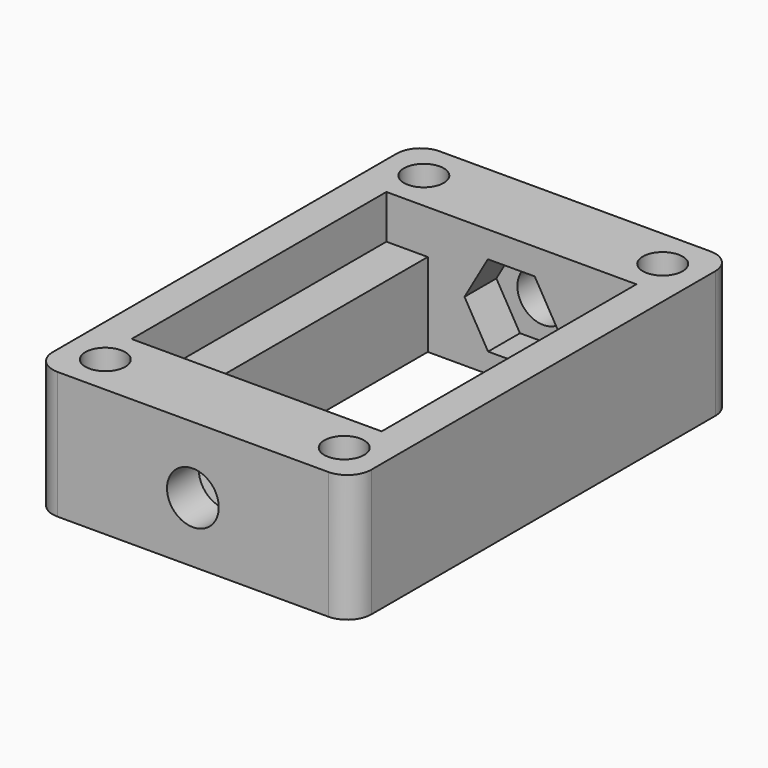
from build123d import *

# Parameters (mm, degrees)
F0_W          = 5.2
F0_H          = 10
F1_DEPTH      = 16
F0_H_2        = 40
F2_DEPTH      = 10.5
F3_R          = 3.25
F4_DEPTH      = 25
F4_DEPTH_BACK = 62.6
F5_DEPTH      = 5
F5_DEPTH_BACK = 45
F6_R          = 2.5
F7_DEPTH      = 20
F8_R          = 3


with BuildPart() as f1:
    # F0 (on Top) → F1 (new body)
    with BuildSketch(Plane.XY):
        with Locations((-13.1, 25)):
            Rectangle(F0_W, F0_H)
        Polygon((-15.7, -30), (-15.7, -20), (-15.7, 20), (-15.7, 30), (-20, 30), (-20, -30), align=None)
        with Locations((-13.1, -25)):
            Rectangle(F0_W, F0_H)
        Polygon((10, -30), (10.5, -30), (10.5, -20), (-10.5, -20), (-10.5, -30), (-10, -30), align=None)
        with Locations((13.1, -25)):
            Rectangle(F0_W, F0_H)
        Polygon((15.7, -30), (20, -30), (20, 30), (15.7, 30), (15.7, 20), (15.7, -20), align=None)
        with Locations((13.1, 25)):
            Rectangle(F0_W, F0_H)
        Polygon((10.5, 20), (10.5, 30), (10, 30), (-10, 30), (-10.5, 30), (-10.5, 20), align=None)
        with Locations((13.1, -25)):
            Rectangle(F0_W, F0_H)
        with Locations((-13.1, -25)):
            Rectangle(F0_W, F0_H)
        with Locations((-13.1, 25)):
            Rectangle(F0_W, F0_H)
        with Locations((13.1, 25)):
            Rectangle(F0_W, F0_H)
    extrude(amount=F1_DEPTH)

    # F0 (on Top) → F2 (join)
    with BuildSketch(Plane.XY):
        with Locations((-13.1, 0)):
            Rectangle(F0_W, F0_H_2)
        with Locations((13.1, 0)):
            Rectangle(F0_W, F0_H_2)
    extrude(amount=F2_DEPTH)

    # F3 (on face) → F4 (cut, two sides)
    with BuildSketch(Plane(origin=(0, -20, 0), x_dir=(-1, 0, 0), z_dir=(0, 1, 0))) as f4_sk:
        with Locations((0, 7.6108775102)):
            Circle(F3_R)
    extrude(amount=-F4_DEPTH, mode=Mode.SUBTRACT)
    extrude(f4_sk.sketch, amount=F4_DEPTH_BACK, mode=Mode.SUBTRACT)

    # F3 (on face) → F5 (cut, two sides)
    with BuildSketch(Plane(origin=(0, -20, 0), x_dir=(-1, 0, 0), z_dir=(0, 1, 0))) as f5_sk:
        Polygon((-2.9280820296, 12.7203134505), (-5.8889423381, 7.6298020583), (-2.9608603085, 2.520366118), (2.9280820296, 2.5014415699), (5.8889423381, 7.591952962), (2.9608603085, 12.7013889023), align=None)
        with Locations((0, 7.6108775102)):
            Circle(F3_R, mode=Mode.SUBTRACT)
    extrude(amount=-F5_DEPTH, mode=Mode.SUBTRACT)
    extrude(f5_sk.sketch, amount=F5_DEPTH_BACK, mode=Mode.SUBTRACT)

    # F6 (on face) → F7 (cut)
    with BuildSketch(Plane.XY.offset(16)):
        with Locations((-15, -25)):
            Circle(F6_R)
        with Locations((15, -25)):
            Circle(F6_R)
        with Locations((15, 25)):
            Circle(F6_R)
        with Locations((-15, 25)):
            Circle(F6_R)
    extrude(amount=-F7_DEPTH, mode=Mode.SUBTRACT)

    # F8
    f8_edges = [f1.edges().sort_by_distance(p)[0] for p in [
        (20, -30, 8),
        (20, 30, 8),
        (-20, 30, 8),
        (-20, -30, 8),
    ]]
    fillet(f8_edges, radius=F8_R)


solid = f1.part
